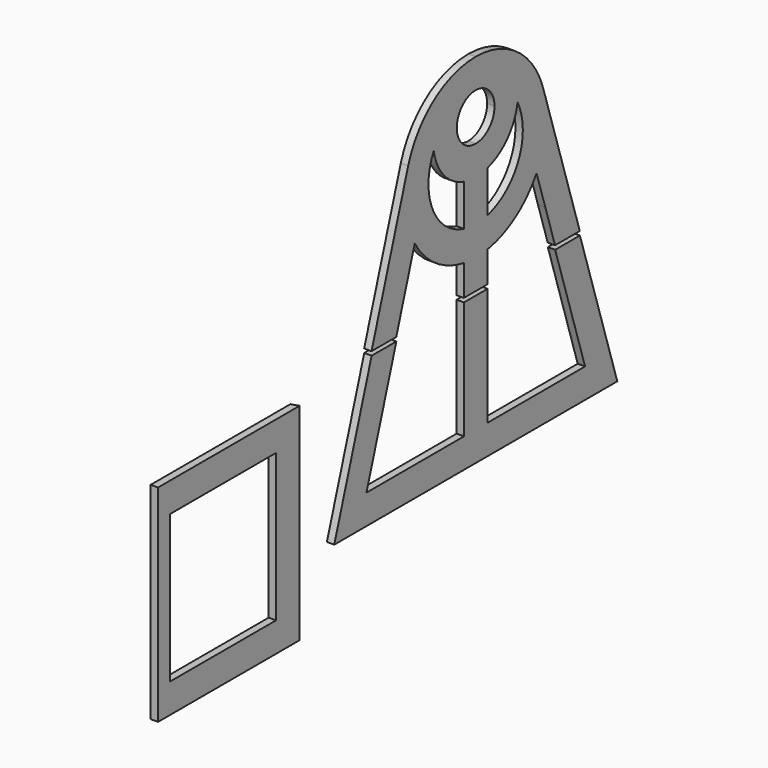
from build123d import *

# Parameters (mm, degrees)
F1_DEPTH = 3.175
F2_W     = 57.15
F2_H     = 63.5
F3_DEPTH = 3.175
F5_DEPTH = 88.9


with BuildPart() as f1:
    # F0 (on Right) → F1 (new body)
    with BuildSketch(Plane.YZ):
        with BuildLine():
            Line((56.071307, -50.8), (36.318986, 11.512657))
            ThreePointArc((36.318986, 11.512657), (22.505308, 30.742822), (0, 38.1))
            Line((0, 38.1), (0, 25.4))
            ThreePointArc((0, 25.4), (7.184205, 22.424205), (10.16, 15.24))
            ThreePointArc((10.16, 15.24), (7.184205, 8.055795), (0, 5.08))
            Line((0, 5.08), (0, -7.62))
            ThreePointArc((0, -7.62), (3.206706, -7.393971), (6.35, -6.720353))
            ThreePointArc((6.35, -6.720353), (17.130533, 0.103143), (22.575022, 11.641667))
            ThreePointArc((22.575022, 11.641667), (23.182106, -10.380268), (6.35, -24.593444))
            ThreePointArc((6.35, -24.593444), (3.200509, -25.197554), (0, -25.4))
            Line((0, -25.4), (0, -50.8))
            Line((0, -50.8), (6.35, -50.8))
            Line((6.35, -50.8), (6.35, -50.401562))
            Line((6.35, -50.401562), (6.35, -37.567107))
            ThreePointArc((6.35, -37.567107), (21.577978, -31.400651), (32.793685, -19.395469))
            Line((32.793685, -19.395469), (37.506329, -34.262448))
            Line((37.506329, -34.262448), (42.748523, -50.8))
            Line((42.748523, -50.8), (56.071307, -50.8))
        make_face()
        with BuildLine():
            Line((0, 25.4), (0, 38.1))
            ThreePointArc((0, 38.1), (-22.505308, 30.742822), (-36.318986, 11.512657))
            Line((-36.318986, 11.512657), (-56.071307, -50.8))
            Line((-56.071307, -50.8), (-42.748523, -50.8))
            Line((-42.748523, -50.8), (-37.506329, -34.262448))
            Line((-37.506329, -34.262448), (-32.793685, -19.395469))
            ThreePointArc((-32.793685, -19.395469), (-21.577978, -31.400651), (-6.35, -37.567107))
            Line((-6.35, -37.567107), (-6.35, -50.401562))
            Line((-6.35, -50.401562), (-6.35, -50.8))
            Line((-6.35, -50.8), (0, -50.8))
            Line((0, -50.8), (0, -25.4))
            ThreePointArc((0, -25.4), (-3.200509, -25.197554), (-6.35, -24.593444))
            ThreePointArc((-6.35, -24.593444), (-23.182106, -10.380268), (-22.575022, 11.641667))
            ThreePointArc((-22.575022, 11.641667), (-17.130533, 0.103143), (-6.35, -6.720353))
            ThreePointArc((-6.35, -6.720353), (-3.206706, -7.393971), (0, -7.62))
            Line((0, -7.62), (0, 5.08))
            ThreePointArc((0, 5.08), (-10.16, 15.24), (0, 25.4))
        make_face()
        with BuildLine():
            ThreePointArc((6.35, -6.720353), (3.206706, -7.393971), (0, -7.62))
            Line((0, -7.62), (0, -25.4))
            ThreePointArc((0, -25.4), (3.200509, -25.197554), (6.35, -24.593444))
            Line((6.35, -24.593444), (6.35, -6.720353))
        make_face()
        with BuildLine():
            Line((0, -25.4), (0, -7.62))
            ThreePointArc((0, -7.62), (-3.206706, -7.393971), (-6.35, -6.720353))
            Line((-6.35, -6.720353), (-6.35, -24.593444))
            ThreePointArc((-6.35, -24.593444), (-3.200509, -25.197554), (0, -25.4))
        make_face()
        Polygon((-56.006223, -52.513846), (-76.134917, -116.013846), (0.065083, -116.013846), (76.265083, -116.013846), (56.13639, -52.513846), (42.813606, -52.513846), (58.916561, -103.313846), (6.415083, -103.313846), (6.415083, -52.513846), (-6.284917, -52.513846), (-6.284917, -103.313846), (-58.786394, -103.313846), (-42.683439, -52.513846), align=None)
    extrude(amount=F1_DEPTH)


with BuildPart() as f3:
    # F2 (on Right) → F3 (new body)
    with BuildSketch(Plane.YZ):
        Polygon((-94.792434, -144.647602), (-94.792434, -55.747602), (-170.992434, -55.747602), (-170.992434, -81.147602), (-170.992434, -131.947602), (-170.992434, -144.647602), align=None)
        with Locations((-136.067434, -100.197602)):
            Rectangle(F2_W, F2_H, mode=Mode.SUBTRACT)
    extrude(amount=F3_DEPTH)

    # F4 (on face) → F5 (cut)
    with BuildSketch(Plane(origin=(0, 0, -144.647602), x_dir=(1, 0, 0), z_dir=(0, 0, -1))):
        Polygon((0, 94.792434), (3.175, 94.792434), (0, 95.798869), align=None)
    extrude(amount=-F5_DEPTH, mode=Mode.SUBTRACT)


solid = Compound([f1.part, f3.part])
